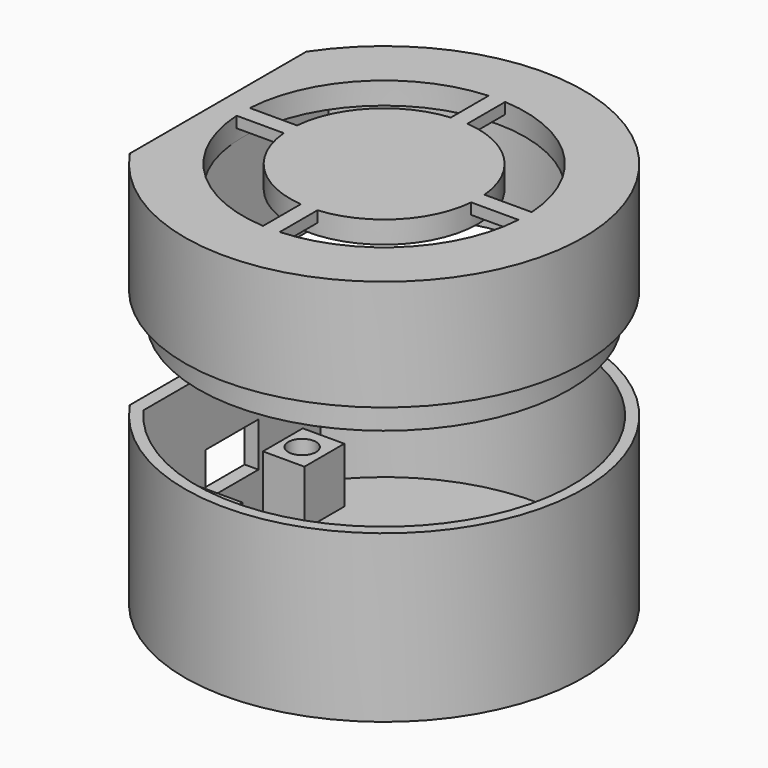
from build123d import *

# Parameters (mm, degrees)
BOX005_W               = 38
BOX005_H               = 32
BOX005_DEPTH           = 10
BOX004_W               = 54
BOX004_H               = 14
BOX004_DEPTH           = 10
CYLINDER005_R          = 2.5
CYLINDER005_DEPTH      = 5
CYLINDER004_R          = 2.5
CYLINDER004_DEPTH      = 5
CYLINDER003_R          = 2.5
CYLINDER003_DEPTH      = 5
CYLINDER002_R          = 2.5
CYLINDER002_DEPTH      = 5
BOX_W                  = 54
BOX_H                  = 32
BOX_DEPTH              = 10
BOX003_W               = 2.5
BOX003_H               = 12
BOX003_DEPTH           = 8
BOX002_W               = 2.5
BOX002_H               = 40
BOX002_DEPTH           = 30
BOX001_W               = 6
BOX001_H               = 50
BOX001_DEPTH           = 50
CYLINDER001_R          = 34
CYLINDER001_DEPTH      = 30
CYLINDER_R             = 36
CYLINDER_DEPTH         = 30
CYLINDER011_R          = 25.5
CYLINDER011_DEPTH      = 4
BOX009_W               = 4
BOX009_H               = 40
BOX009_DEPTH           = 5
BOX008_W               = 1.5
BOX008_H               = 40
BOX008_DEPTH           = 25
BOX007_W               = 3
BOX007_H               = 40
BOX007_DEPTH           = 20
BOX006_W               = 10
BOX006_H               = 50
BOX006_DEPTH           = 50
CYLINDER009_R          = 32
CYLINDER009_DEPTH      = 25
CYLINDER008_R          = 33.5
CYLINDER008_DEPTH      = 25
CYLINDER007_R          = 33.5
CYLINDER007_DEPTH      = 16
CYLINDER006_R          = 36
CYLINDER006_DEPTH      = 20
BOX011_W               = 54
BOX011_H               = 3
BOX011_DEPTH           = 2
BOX011_PLACEMENT_ANGLE = 90
BOX010_W               = 54
BOX010_H               = 3
BOX010_DEPTH           = 2
CYLINDER010_R          = 17
CYLINDER010_DEPTH      = 4


with BuildPart() as obj1:
    # Box005 → Box005 (new body)
    with BuildSketch(Plane(origin=(-20, -16, 2.5), x_dir=(1, 0, 0), z_dir=(0, 0, 1))):
        with Locations((19, 16)):
            Rectangle(BOX005_W, BOX005_H)
    extrude(amount=BOX005_DEPTH)


with BuildPart() as obj2:
    # Box004 → Box004 (new body)
    with BuildSketch(Plane(origin=(-27.5, -7, 2.5), x_dir=(1, 0, 0), z_dir=(0, 0, 1))):
        with Locations((27, 7)):
            Rectangle(BOX004_W, BOX004_H)
    extrude(amount=BOX004_DEPTH)


with BuildPart() as zylinder005:
    # Cylinder005 → Cylinder005 (new body)
    with BuildSketch(Plane(origin=(-24, -11.5, 7.5), x_dir=(1, 0, 0), z_dir=(0, 0, 1))):
        Circle(CYLINDER005_R)
    extrude(amount=CYLINDER005_DEPTH)


with BuildPart() as zylinder004:
    # Cylinder004 → Cylinder004 (new body)
    with BuildSketch(Plane(origin=(22.5, -11.5, 7.5), x_dir=(1, 0, 0), z_dir=(0, 0, 1))):
        Circle(CYLINDER004_R)
    extrude(amount=CYLINDER004_DEPTH)


with BuildPart() as zylinder003:
    # Cylinder003 → Cylinder003 (new body)
    with BuildSketch(Plane(origin=(22.5, 11.5, 7.5), x_dir=(1, 0, 0), z_dir=(0, 0, 1))):
        Circle(CYLINDER003_R)
    extrude(amount=CYLINDER003_DEPTH)


with BuildPart() as zylinder002:
    # Cylinder002 → Cylinder002 (new body)
    with BuildSketch(Plane(origin=(-24, 11.5, 7.5), x_dir=(1, 0, 0), z_dir=(0, 0, 1))):
        Circle(CYLINDER002_R)
    extrude(amount=CYLINDER002_DEPTH)


with BuildPart() as cut008:
    # Box → Box (new body)
    with BuildSketch(Plane(origin=(-27.5, -16, 2.5), x_dir=(1, 0, 0), z_dir=(0, 0, 1))):
        with Locations((27, 16)):
            Rectangle(BOX_W, BOX_H)
    extrude(amount=BOX_DEPTH)

    # Cut003: cut Zylinder002
    add(zylinder002.part, mode=Mode.SUBTRACT)

    # Cut004: cut Zylinder003
    add(zylinder003.part, mode=Mode.SUBTRACT)

    # Cut005: cut Zylinder004
    add(zylinder004.part, mode=Mode.SUBTRACT)

    # Cut006: cut Zylinder005
    add(zylinder005.part, mode=Mode.SUBTRACT)

    # Cut007: cut obj2
    add(obj2.part, mode=Mode.SUBTRACT)

    # Cut008: cut obj1
    add(obj1.part, mode=Mode.SUBTRACT)


with BuildPart() as obj3:
    # Box003 → Box003 (new body)
    with BuildSketch(Plane(origin=(-30, -6, 10), x_dir=(1, 0, 0), z_dir=(0, 0, 1))):
        with Locations((1.25, 6)):
            Rectangle(BOX003_W, BOX003_H)
    extrude(amount=BOX003_DEPTH)


with BuildPart() as obj4:
    # Box002 → Box002 (new body)
    with BuildSketch(Plane(origin=(-30, -20, 0), x_dir=(1, 0, 0), z_dir=(0, 0, 1))):
        with Locations((1.25, 20)):
            Rectangle(BOX002_W, BOX002_H)
    extrude(amount=BOX002_DEPTH)


with BuildPart() as obj5:
    # Box001 → Box001 (new body)
    with BuildSketch(Plane(origin=(-36, -25, 0), x_dir=(1, 0, 0), z_dir=(0, 0, 1))):
        with Locations((3, 25)):
            Rectangle(BOX001_W, BOX001_H)
    extrude(amount=BOX001_DEPTH)


with BuildPart() as zylinder001:
    # Cylinder001 → Cylinder001 (new body)
    with BuildSketch(Plane.XY.offset(2.5)):
        Circle(CYLINDER001_R)
    extrude(amount=CYLINDER001_DEPTH)


with BuildPart() as green_tower_bottom:
    # Cylinder → Cylinder (new body)
    with BuildSketch(Plane.XY):
        Circle(CYLINDER_R)
    extrude(amount=CYLINDER_DEPTH)

    # Cut: cut Zylinder001
    add(zylinder001.part, mode=Mode.SUBTRACT)

    # Cut001: cut obj5
    add(obj5.part, mode=Mode.SUBTRACT)

    # Fusion: union obj4
    add(obj4.part)

    # Cut002: cut obj3
    add(obj3.part, mode=Mode.SUBTRACT)

    # Fusion001: union Cut008
    add(cut008.part)


with BuildPart() as zylinder011:
    # Cylinder011 → Cylinder011 (new body)
    with BuildSketch(Plane.XY.offset(16)):
        Circle(CYLINDER011_R)
    extrude(amount=CYLINDER011_DEPTH)


with BuildPart() as obj6:
    # Box009 → Box009 (new body)
    with BuildSketch(Plane(origin=(-31, -20, -5), x_dir=(1, 0, 0), z_dir=(0, 0, 1))):
        with Locations((2, 20)):
            Rectangle(BOX009_W, BOX009_H)
    extrude(amount=BOX009_DEPTH)


with BuildPart() as obj7:
    # Box008 → Box008 (new body)
    with BuildSketch(Plane(origin=(-27, -20, -5), x_dir=(1, 0, 0), z_dir=(0, 0, 1))):
        with Locations((0.75, 20)):
            Rectangle(BOX008_W, BOX008_H)
    extrude(amount=BOX008_DEPTH)


with BuildPart() as fusion003:
    # Box007 → Box007 (new body)
    with BuildSketch(Plane(origin=(-30, -20, 0), x_dir=(1, 0, 0), z_dir=(0, 0, 1))):
        with Locations((1.5, 20)):
            Rectangle(BOX007_W, BOX007_H)
    extrude(amount=BOX007_DEPTH)

    # Fusion003: union obj7
    add(obj7.part)


with BuildPart() as obj8:
    # Box006 → Box006 (new body)
    with BuildSketch(Plane(origin=(-40, -25, -20), x_dir=(1, 0, 0), z_dir=(0, 0, 1))):
        with Locations((5, 25)):
            Rectangle(BOX006_W, BOX006_H)
    extrude(amount=BOX006_DEPTH)


with BuildPart() as zylinder009:
    # Cylinder009 → Cylinder009 (new body)
    with BuildSketch(Plane.XY.offset(-5)):
        Circle(CYLINDER009_R)
    extrude(amount=CYLINDER009_DEPTH)


with BuildPart() as cut010:
    # Cylinder008 → Cylinder008 (new body)
    with BuildSketch(Plane.XY.offset(-5)):
        Circle(CYLINDER008_R)
    extrude(amount=CYLINDER008_DEPTH)

    # Cut010: cut Zylinder009
    add(zylinder009.part, mode=Mode.SUBTRACT)


with BuildPart() as zylinder007:
    # Cylinder007 → Cylinder007 (new body)
    with BuildSketch(Plane.XY):
        Circle(CYLINDER007_R)
    extrude(amount=CYLINDER007_DEPTH)


with BuildPart() as cut013:
    # Cylinder006 → Cylinder006 (new body)
    with BuildSketch(Plane.XY):
        Circle(CYLINDER006_R)
    extrude(amount=CYLINDER006_DEPTH)

    # Cut009: cut Zylinder007
    add(zylinder007.part, mode=Mode.SUBTRACT)

    # Fusion002: union Cut010
    add(cut010.part)

    # Cut011: cut obj8
    add(obj8.part, mode=Mode.SUBTRACT)

    # Fusion004: union Fusion003
    add(fusion003.part)

    # Cut012: cut obj6
    add(obj6.part, mode=Mode.SUBTRACT)

    # Cut013: cut Zylinder011
    add(zylinder011.part, mode=Mode.SUBTRACT)


with BuildPart() as obj9:
    # Box011 → Box011 (new body)
    with BuildSketch(Plane.XY):
        with Locations((27, 1.5)):
            Rectangle(BOX011_W, BOX011_H)
    extrude(amount=BOX011_DEPTH)


with BuildPart() as obj9_1:
    # Box011 placement: moved
    add(obj9.part.moved(Location((1.5, -27, 18))).rotate(Axis((1.5, -27, 18), (0, 0, 1)), BOX011_PLACEMENT_ANGLE))


with BuildPart() as fusion005:
    # Box010 → Box010 (new body)
    with BuildSketch(Plane(origin=(-27, -1.5, 18), x_dir=(1, 0, 0), z_dir=(0, 0, 1))):
        with Locations((27, 1.5)):
            Rectangle(BOX010_W, BOX010_H)
    extrude(amount=BOX010_DEPTH)

    # Fusion005: union obj9
    add(obj9_1.part)


with BuildPart() as green_tower_top:
    # Cylinder010 → Cylinder010 (new body)
    with BuildSketch(Plane.XY.offset(16)):
        Circle(CYLINDER010_R)
    extrude(amount=CYLINDER010_DEPTH)

    # Fusion006: union Fusion005
    add(fusion005.part)

    # Fusion007: union Cut013
    add(cut013.part)


with BuildPart() as green_tower_top_1:
    # Fusion007 placement: moved
    add(green_tower_top.part.moved(Location((0, 0, 50))))


solid = Compound([green_tower_bottom.part, green_tower_top_1.part])
